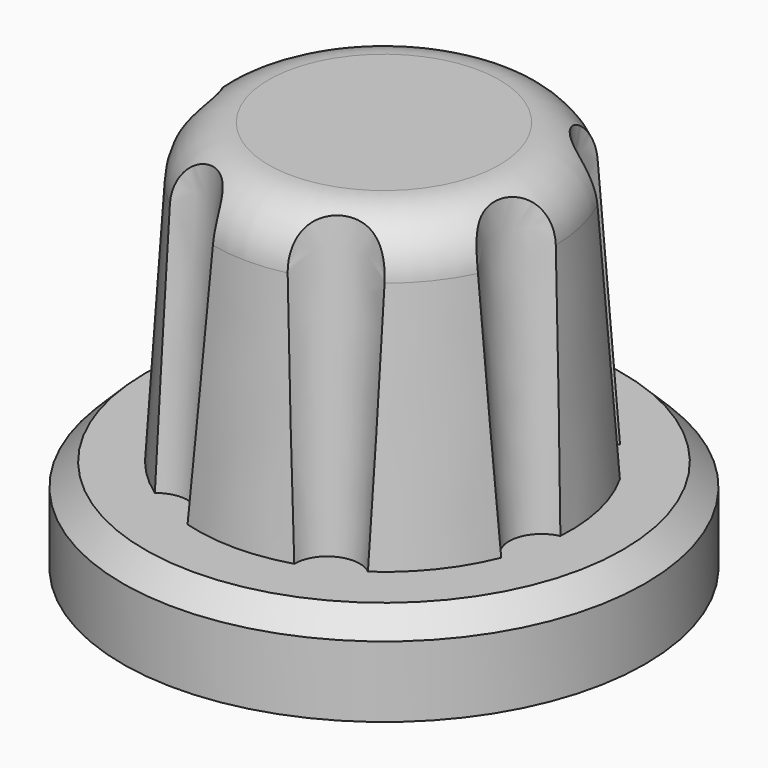
from build123d import *

# Parameters (mm, degrees)
CYLINDER_R     = 7
CYLINDER_DEPTH = 2.5
CHAMFER_SIZE   = 0.6
ARRAY_COUNT    = 7
FILLET_R       = 1.5
POCKET_DEPTH   = 5


with BuildPart() as chamfer_body:
    # Cylinder → Cylinder (new body)
    with BuildSketch(Plane.XY.offset(-2.5)):
        Circle(CYLINDER_R)
    extrude(amount=CYLINDER_DEPTH)

    # Chamfer
    chamfer_edges = [chamfer_body.edges().sort_by_distance(p)[0] for p in [
        (-7, 0, 0),
    ]]
    chamfer(chamfer_edges, length=CHAMFER_SIZE)


with BuildPart() as array:
    # Cone001 → Cone001 (revolve)
    with BuildSketch(Plane(origin=(0, 5.3, -1), x_dir=(1, 0, 0), z_dir=(0, -1, 0))):
        Polygon((0, 0), (0.8, 0), (1.5, 10), (0, 10), align=None)
    revolve(axis=Axis((0, 5.3, -1), (0, 0, 1)))

    # Array: Array ×7 about axis
    array_axis = Axis((0, 0, 0), (0, 0, 1))


with BuildPart() as array_1:
    add(array.part)
    for i in range(1, ARRAY_COUNT):
        add(array.part.rotate(array_axis, i * 360 / ARRAY_COUNT))


with BuildPart() as pocket:
    # Cone → Cone (revolve)
    with BuildSketch(Plane.XZ):
        Polygon((0, 0), (5, 0), (4.5, 8), (0, 8), align=None)
    revolve(axis=Axis((0, 0, 0), (0, 0, 1)))

    # Fillet
    fillet_edges = [pocket.edges().sort_by_distance(p)[0] for p in [
        (-4.5, 0, 8),
    ]]
    fillet(fillet_edges, radius=FILLET_R)

    # Cut: cut Array
    add(array_1.part, mode=Mode.SUBTRACT)

    # Fusion: union Chamfer body
    add(chamfer_body.part)

    # Sketch → Pocket (cut)
    with BuildSketch(Plane(origin=(0, 0, -2.5), x_dir=(1, 0, 0), z_dir=(0, 0, -1))):
        with BuildLine():
            ThreePointArc((2, 1.5), (-2.5, 0), (2, -1.5))
            Line((2, 1.5), (2, -1.5))
        make_face()
    extrude(amount=-POCKET_DEPTH, mode=Mode.SUBTRACT)


solid = pocket.part
